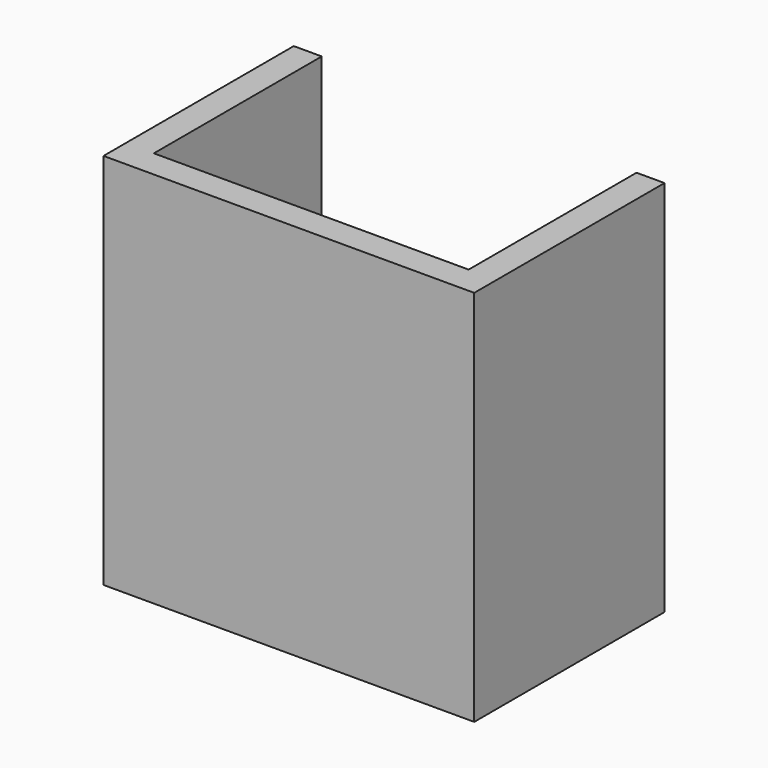
from build123d import *

# Parameters (mm, degrees)
F1_DEPTH = 38.1
F2_W     = 67.31
F2_H     = 68.58
F3_DEPTH = 5.08


with BuildPart() as f1:
    # F0 (on Front) → F1 (new body)
    with BuildSketch(Plane.XZ):
        Polygon((-28.575, -30.48), (-28.575, 33.02), (-33.655, 33.02), (-33.655, -35.56), (33.655, -35.56), (33.655, 33.02), (28.575, 33.02), (28.575, -30.48), align=None)
    extrude(amount=F1_DEPTH)

    # F2 (on face) → F3 (join)
    with BuildSketch(Plane.XZ.offset(38.1)):
        with Locations((0, -1.27)):
            Rectangle(F2_W, F2_H)
    extrude(amount=F3_DEPTH)


solid = f1.part
